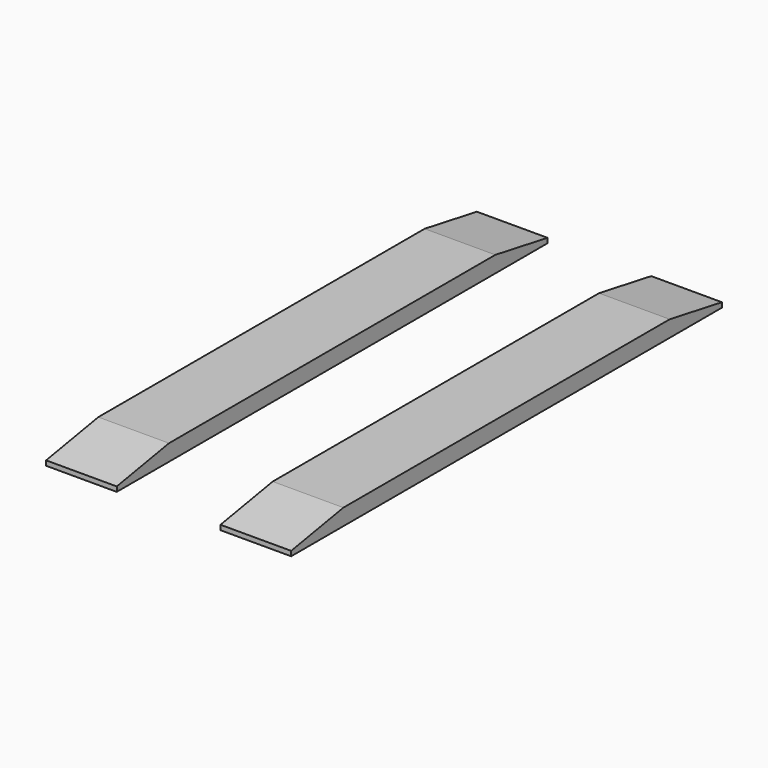
from build123d import *

# Parameters (mm, degrees)
F1_DEPTH   = 127
F2_W       = 807
F2_H       = 4190
F3_DEPTH   = 127.001
F4_SIZE2   = 89.5741061999
F4_SIZE    = 508
F4_2_SIZE2 = 89.5741061999
F4_2_SIZE  = 508


with BuildPart() as f1:
    # F0 (on Top) → F1 (new body)
    with BuildSketch(Plane.XY):
        Polygon((-953.5, 2095), (-953.5, -2095), (953.5, -2095), align=None)
        Polygon((-953.5, 2095), (953.5, -2095), (953.5, 2095), align=None)
    extrude(amount=F1_DEPTH)

    # F2 (on face) → F3 (cut, through all)
    with BuildSketch(Plane.XY.offset(127)):
        Rectangle(F2_W, F2_H)
    extrude(amount=-F3_DEPTH, mode=Mode.SUBTRACT)

    # F4
    f4_edges = [f1.edges().sort_by_distance(p)[0] for p in [
        (-678.5, -2095, 127),
        (-678.5, 2095, 127),
    ]]
    f4_side = f1.faces().sort_by_distance((-678.5, 0, 127))[0]
    chamfer(f4_edges, length=F4_SIZE, length2=F4_SIZE2, reference=f4_side)

    # F4#2
    f4_2_edges = [f1.edges().sort_by_distance(p)[0] for p in [
        (678.5, -2095, 127),
        (678.5, 2095, 127),
    ]]
    f4_2_side = f1.faces().sort_by_distance((678.5, 0, 127))[0]
    chamfer(f4_2_edges, length=F4_2_SIZE, length2=F4_2_SIZE2, reference=f4_2_side)


solid = f1.part
